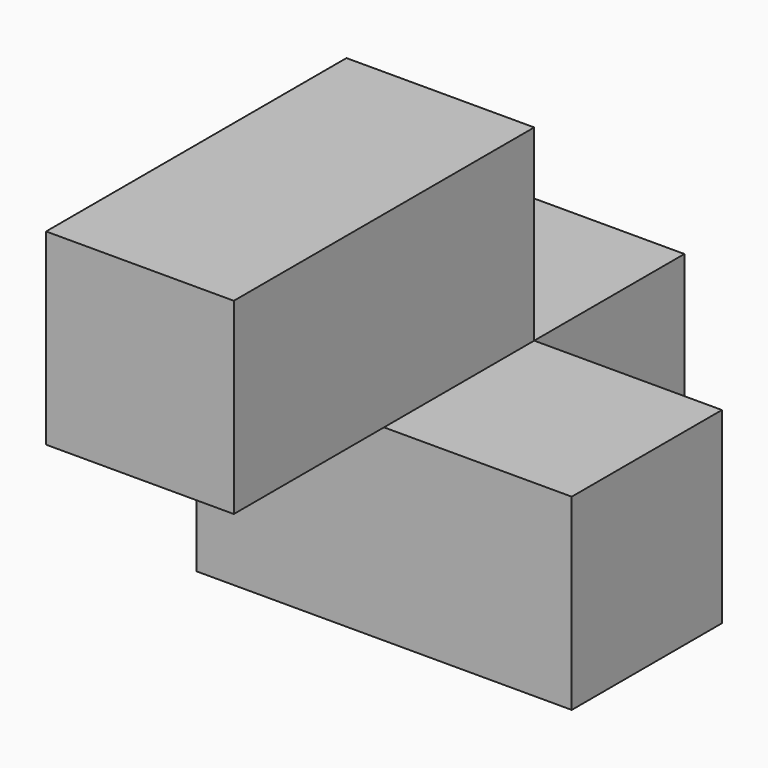
from build123d import *

# Parameters (mm, degrees)
F0_W     = 38.1
F0_H     = 57.15
F1_DEPTH = 38.1
F2_W     = 19.05
F2_H     = 19.05
F3_DEPTH = 38.1
F4_W     = 19.05
F4_H     = 19.05
F5_DEPTH = 57.151
F6_W     = 19.05
F6_H     = 19.05
F7_DEPTH = 19.051
F8_W     = 19.05
F8_H     = 19.05
F9_DEPTH = 19.05


with BuildPart() as f1:
    # F0 (on Top) → F1 (new body)
    with BuildSketch(Plane.XY):
        with Locations((19.05, 28.575)):
            Rectangle(F0_W, F0_H)
    extrude(amount=F1_DEPTH)

    # F2 (on face) → F3 (cut)
    with BuildSketch(Plane.YZ.offset(38.1)):
        with Locations((9.525, 9.525)):
            Rectangle(F2_W, F2_H)
    extrude(amount=-F3_DEPTH, mode=Mode.SUBTRACT)

    # F4 (on face) → F5 (cut, through all)
    with BuildSketch(Plane.XZ):
        with Locations((28.575, 28.575)):
            Rectangle(F4_W, F4_H)
    extrude(amount=-F5_DEPTH, mode=Mode.SUBTRACT)

    # F6 (on face) → F7 (cut, through all)
    with BuildSketch(Plane.YZ.offset(19.05)):
        with Locations((47.625, 28.575)):
            Rectangle(F6_W, F6_H)
    extrude(amount=-F7_DEPTH, mode=Mode.SUBTRACT)

    # F8 (on face) → F9 (cut)
    with BuildSketch(Plane.YZ.offset(38.1)):
        with Locations((47.625, 9.525)):
            Rectangle(F8_W, F8_H)
    extrude(amount=-F9_DEPTH, mode=Mode.SUBTRACT)


solid = f1.part
